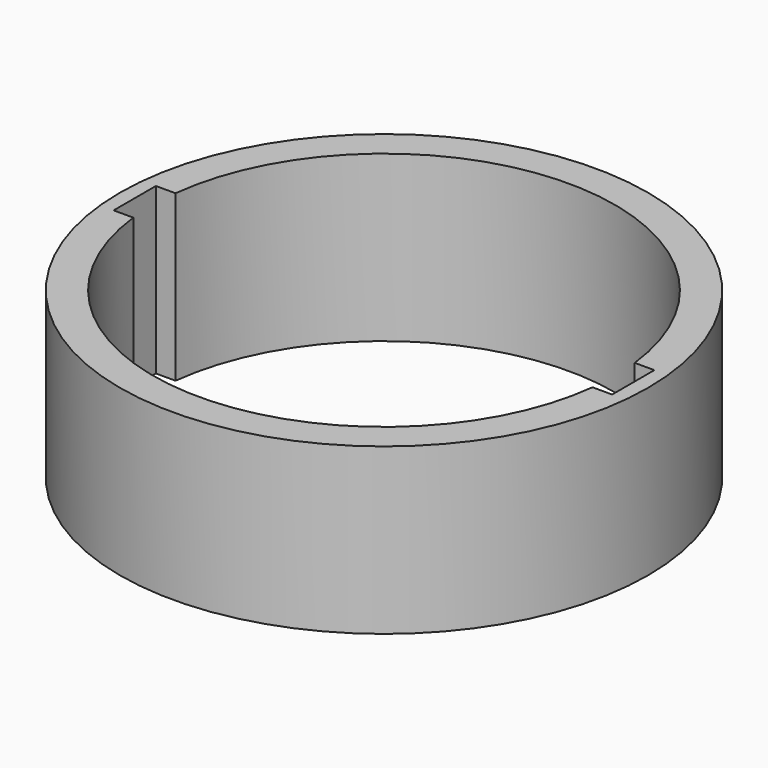
from build123d import *

# Parameters (mm, degrees)
F0_R     = 40
F1_DEPTH = 25


with BuildPart() as f1:
    # F0 (on Top) → F1 (new body)
    with BuildSketch(Plane.XY):
        Circle(F0_R)
        with BuildLine():
            Line((37.75, 4), (37.75, -4))
            Line((37.75, -4), (34.770677, -4))
            ThreePointArc((34.770677, -4), (0, -35), (-34.770677, -4))
            Line((-34.770677, -4), (-37.75, -4))
            Line((-37.75, -4), (-37.75, 4))
            Line((-37.75, 4), (-34.770677, 4))
            ThreePointArc((-34.770677, 4), (0, 35), (34.770677, 4))
            Line((34.770677, 4), (37.75, 4))
        make_face(mode=Mode.SUBTRACT)
    extrude(amount=F1_DEPTH)


solid = f1.part
